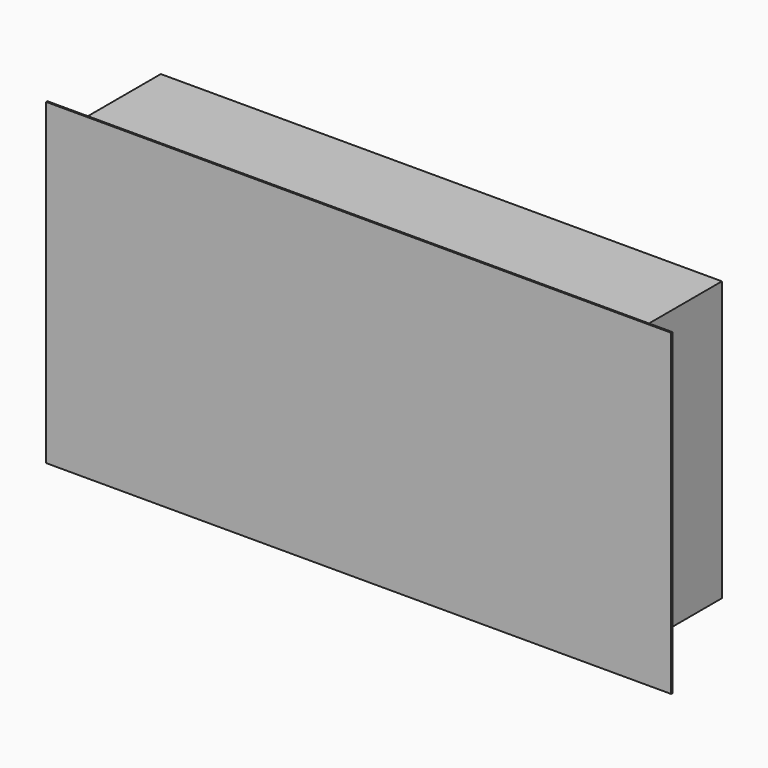
from build123d import *

# Parameters (mm, degrees)
F0_W     = 401
F0_H     = 204
F1_DEPTH = 1
F3_DEPTH = 66


with BuildPart() as f1:
    # F0 (on Front) → F1 (new body)
    with BuildSketch(Plane.XZ):
        with Locations((200.5, 102)):
            Rectangle(F0_W, F0_H)
    extrude(amount=F1_DEPTH)

    # F2 (on face) → F3 (join)
    with BuildSketch(Plane(origin=(0, 0, 0), x_dir=(-1, 0, 0), z_dir=(0, 1, 0))):
        Polygon((-20, 20), (-20, 199), (-380, 199), (-380, 20), (-180, 20), (-165, 5), (-65, 5), (-50, 20), align=None)
    extrude(amount=F3_DEPTH)


solid = f1.part
